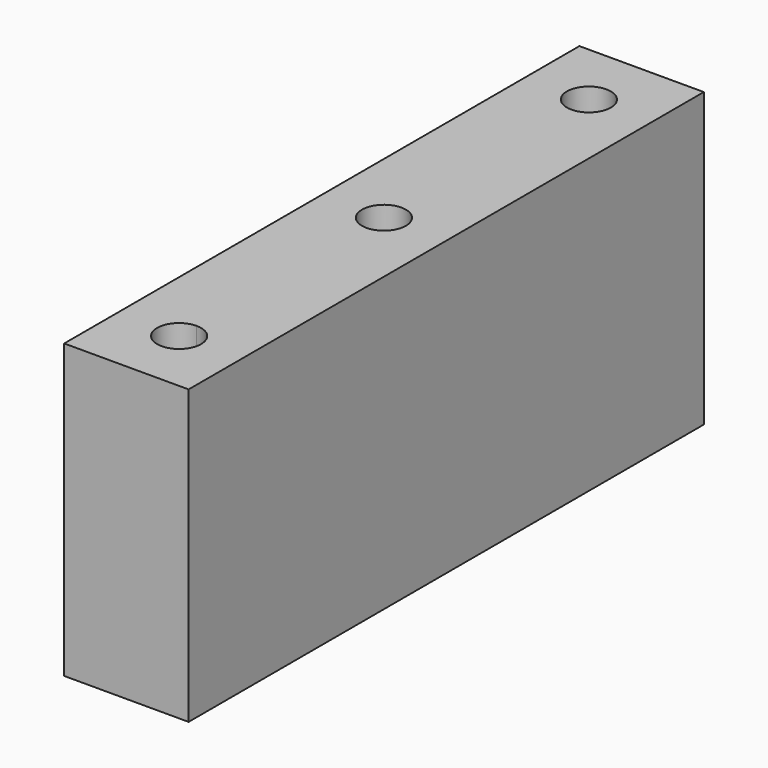
from build123d import *

# Parameters (mm, degrees)
SKETCH014_W   = 8.5
SKETCH014_H   = 44
PAD_DEPTH     = 20
SKETCH008_R   = 1.5
HOLE_DEPTH    = 4
SKETCH018_R   = 1.5
HOLE002_DEPTH = 4


with BuildPart() as part:
    # Sketch014 → Pad (new body)
    with BuildSketch(Plane.XY):
        with Locations((-4.25, 22)):
            Rectangle(SKETCH014_W, SKETCH014_H)
    extrude(amount=PAD_DEPTH)

    # Sketch008 → Hole (cut)
    with BuildSketch(Plane.XY):
        with Locations((-4.250802, 4.5)):
            Circle(SKETCH008_R)
        with Locations((-4.25, 39.499999)):
            Circle(SKETCH008_R)
        with Locations((-4.254534, 22)):
            Circle(SKETCH008_R)
        with Locations((-4.25, 4.5)):
            Circle(SKETCH008_R)
    extrude(amount=HOLE_DEPTH, mode=Mode.SUBTRACT)

    # Sketch018 (on Face5 of Hole) → Hole002 (cut)
    with BuildSketch(Plane.XY.offset(20)):
        with Locations((-4.250802, 4.5)):
            Circle(SKETCH018_R)
        with Locations((-4.25, 39.499999)):
            Circle(SKETCH018_R)
        with Locations((-4.254534, 22)):
            Circle(SKETCH018_R)
        with Locations((-4.25, 4.5)):
            Circle(SKETCH018_R)
    extrude(amount=-HOLE002_DEPTH, mode=Mode.SUBTRACT)


solid = part.part
